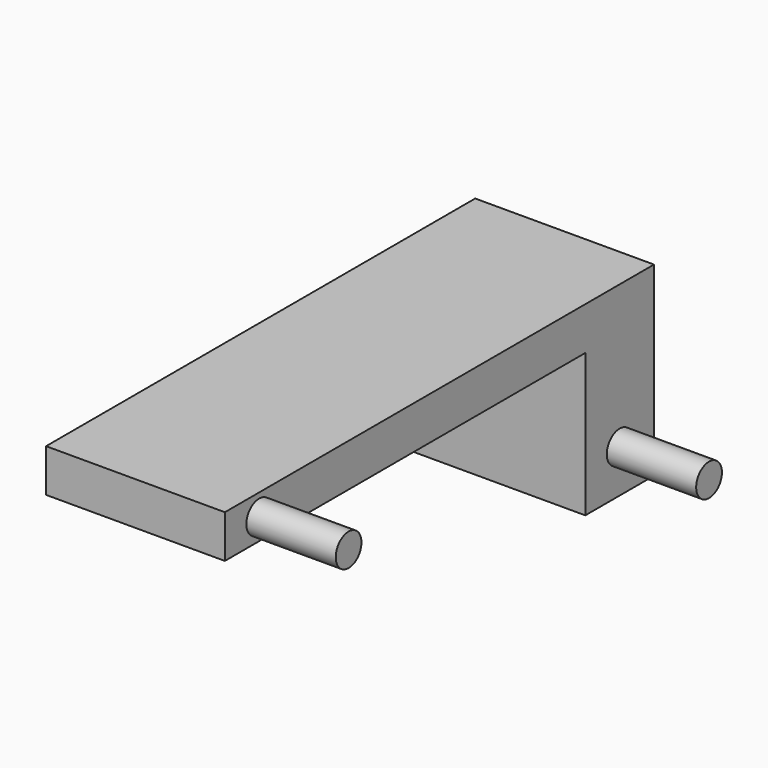
from build123d import *

# Parameters (mm, degrees)
F0_W     = 50
F0_H     = 150
F1_DEPTH = 12
F2_W     = 24
F2_H     = 40
F3_DEPTH = 50
F4_R     = 4.5
F5_DEPTH = 25


with BuildPart() as f1:
    # F0 (on Top) → F1 (new body)
    with BuildSketch(Plane.XY):
        Rectangle(F0_W, F0_H)
    extrude(amount=F1_DEPTH)

    # F2 (on face) → F3 (join)
    with BuildSketch(Plane.YZ.offset(25)):
        with Locations((63, -20)):
            Rectangle(F2_W, F2_H)
    extrude(amount=-F3_DEPTH)

    # F4 (on face) → F5 (join)
    with BuildSketch(Plane.YZ.offset(25)):
        with Locations((-63, 6)):
            Circle(F4_R)
        with Locations((63, -28)):
            Circle(F4_R)
    extrude(amount=F5_DEPTH)


solid = f1.part
